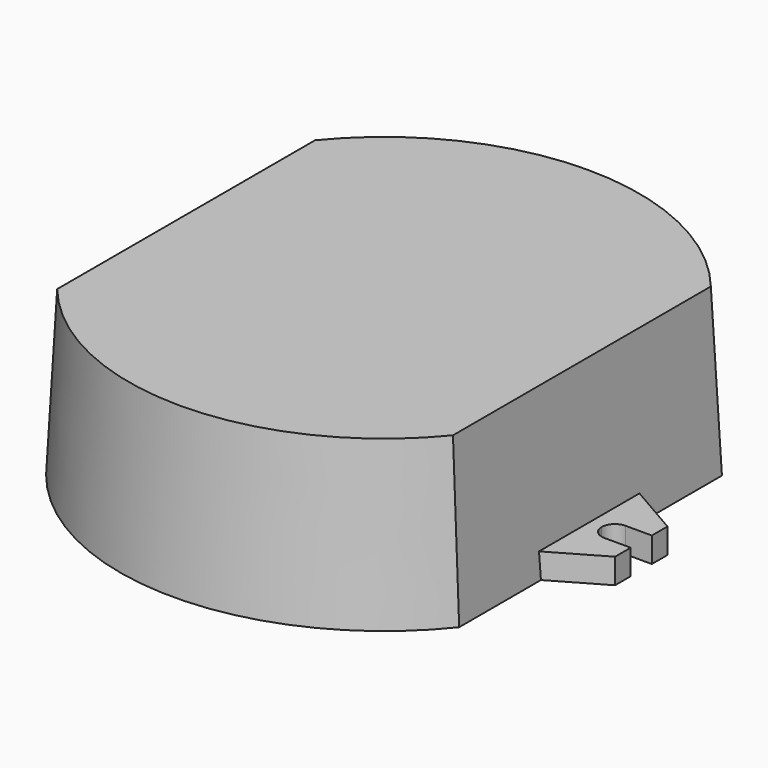
from build123d import *

# Parameters (mm, degrees)
F0_R     = 40
F1_DEPTH = 25
F1_TAPER = 3
F2_W     = 25.4
F2_H     = 101.6
F3_DEPTH = 25.001
F3_TAPER = 3
F5_DEPTH = 3.81


with BuildPart() as f1:
    # F0 (on Top) → F1 (new body)
    with BuildSketch(Plane.XY):
        Circle(F0_R)
    extrude(amount=F1_DEPTH, taper=F1_TAPER)

    # F2 (on face) → F3 (cut, through all)
    with BuildSketch(Plane.XY.offset(25)):
        with Locations((-42.7, 0)):
            Rectangle(F2_W, F2_H)
        with Locations((42.7, 0)):
            Rectangle(F2_W, F2_H)
    extrude(amount=-F3_DEPTH, taper=F3_TAPER, mode=Mode.SUBTRACT)

    # F4 (on face) → F5 (join)
    with BuildSketch(Plane(origin=(0, 0, 0), x_dir=(1, 0, 0), z_dir=(0, 0, -1))):
        with BuildLine():
            ThreePointArc((-35, 2), (-33.5857864376, 1.4142135624), (-33, 0))
            ThreePointArc((-33, 0), (-33.5857864376, -1.4142135624), (-35, -2))
            Line((-35, -2), (-39, -2))
            Line((-39, -2), (-39, -4.9638475773))
            Line((-39, -4.9638475773), (-30, -10.16))
            Line((-30, -10.16), (-30, 10.16))
            Line((-30, 10.16), (-39, 4.9638475773))
            Line((-39, 4.9638475773), (-39, 2))
            Line((-39, 2), (-35, 2))
        make_face()
        with BuildLine():
            ThreePointArc((33, 0), (33.5857864376, 1.4142135624), (35, 2))
            Line((35, 2), (39, 2))
            Line((39, 2), (39, 4.9638475773))
            Line((39, 4.9638475773), (30, 10.16))
            Line((30, 10.16), (30, -10.16))
            Line((30, -10.16), (39, -4.9638475773))
            Line((39, -4.9638475773), (39, -2))
            Line((39, -2), (35, -2))
            ThreePointArc((35, -2), (33.5857864376, -1.4142135624), (33, 0))
        make_face()
    extrude(amount=-F5_DEPTH)


solid = f1.part
